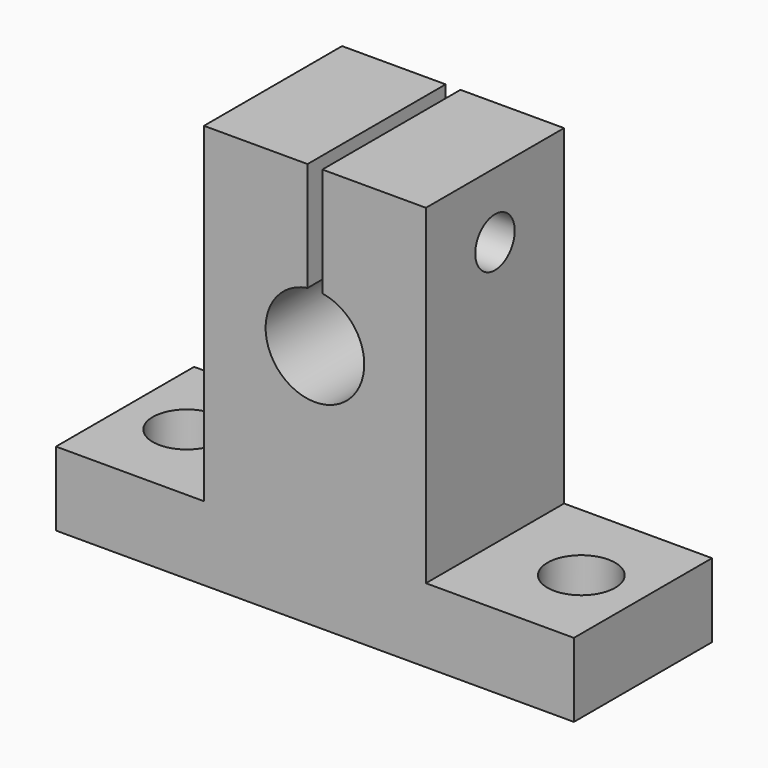
from build123d import *

# Parameters (mm, degrees)
OBJ1_R                     = 2.75
OBJ1_DEPTH                 = 8
OBJ2                     = 2.75
OBJ3                 = 8
OBJ4_PLACEMENT_ANGLE        = 90
TBOLT_SHAFT_R                    = 2
TBOLT_SHAFT_DEPTH                = 20
TBOLT_SHAFT_ROLL_ANGLE           = 90
UP_SEP_W                         = 16
UP_SEP_H                         = 1.2
UP_SEP_DEPTH                     = 13.8
SHAFT_HOLE_R                     = 4
SHAFT_HOLE_DEPTH                 = 16
SHAFT_HOLE_PITCH_ANGLE           = 90
TBOLT_HEAD_R                     = 3.85
TBOLT_HEAD_DEPTH                 = 5.4
TBOLT_HEAD_ROLL_ANGLE            = 90
SIDE_BOX_L_W                     = 14
SIDE_BOX_L_H                     = 12
SIDE_BOX_L_DEPTH                 = 26.8
SIDE_BOX_R_W                     = 14
SIDE_BOX_R_H                     = 12
SIDE_BOX_R_DEPTH                 = 26.8
TOTAL_BOX_W                      = 14
TOTAL_BOX_H                      = 42
TOTAL_BOX_DEPTH                  = 32.8
SK_SHAPE_W_HOLES_PLACEMENT_ANGLE = 90


with BuildPart() as obj1:
    # obj1 → obj1 (new body)
    with BuildSketch(Plane(origin=(7, -16, -1), x_dir=(1, 0, 0), z_dir=(0, 0, 1))):
        Circle(OBJ1_R)
    extrude(amount=OBJ1_DEPTH)


with BuildPart() as obj4:
    with BuildSketch(Plane(origin=(7, 16, -1), x_dir=(1, 0, 0), z_dir=(0, 0, 1))):
        Circle(OBJ2)
    extrude(amount=OBJ3)

    # obj4: union obj1
    add(obj1.part)


with BuildPart() as obj4_1:
    # obj4 placement: moved
    add(obj4.part.moved(Location((0, -7, 0))).rotate(Axis((0, -7, 0), (0, 0, 1)), OBJ4_PLACEMENT_ANGLE))


with BuildPart() as tbolt_shaft:
    # tbolt_shaft → tbolt_shaft (new body)
    with BuildSketch(Plane.XY):
        Circle(TBOLT_SHAFT_R)
    extrude(amount=TBOLT_SHAFT_DEPTH)


with BuildPart() as tbolt_shaft_1:
    # tbolt_shaft roll: moved
    add(tbolt_shaft.part.rotate(Axis((0, 0, 0), (1, 0, 0)), TBOLT_SHAFT_ROLL_ANGLE))


with BuildPart() as tbolt_shaft_2:
    # tbolt_shaft placement: moved
    add(tbolt_shaft_1.part.moved(Location((7, 10, 27.5))))


with BuildPart() as up_sep:
    # up_sep → up_sep (new body)
    with BuildSketch(Plane(origin=(-1, -0.6, 21), x_dir=(1, 0, 0), z_dir=(0, 0, 1))):
        with Locations((8, 0.6)):
            Rectangle(UP_SEP_W, UP_SEP_H)
    extrude(amount=UP_SEP_DEPTH)


with BuildPart() as shaft_hole:
    # shaft_hole → shaft_hole (new body)
    with BuildSketch(Plane.XY):
        Circle(SHAFT_HOLE_R)
    extrude(amount=SHAFT_HOLE_DEPTH)


with BuildPart() as shaft_hole_1:
    # shaft_hole pitch: moved
    add(shaft_hole.part.rotate(Axis((0, 0, 0), (0, 1, 0)), SHAFT_HOLE_PITCH_ANGLE))


with BuildPart() as shaft_hole_2:
    # shaft_hole placement: moved
    add(shaft_hole_1.part.moved(Location((-1, 0, 20))))


with BuildPart() as fuse_shaft_holes:
    # tbolt_head → tbolt_head (new body)
    with BuildSketch(Plane.XY):
        Circle(TBOLT_HEAD_R)
    extrude(amount=TBOLT_HEAD_DEPTH)


with BuildPart() as fuse_shaft_holes_1:
    # tbolt_head roll: moved
    add(fuse_shaft_holes.part.rotate(Axis((0, 0, 0), (1, 0, 0)), TBOLT_HEAD_ROLL_ANGLE))


with BuildPart() as fuse_shaft_holes_2:
    # tbolt_head placement: moved
    add(fuse_shaft_holes_1.part.moved(Location((7, 10, 27.5))))

    # fuse_shaft_holes: union tbolt_shaft, up_sep, shaft_hole
    add(tbolt_shaft_2.part)
    add(up_sep.part)
    add(shaft_hole_2.part)


with BuildPart() as side_box_l:
    # side_box_l → side_box_l (new body)
    with BuildSketch(Plane(origin=(0, -21, 6), x_dir=(1, 0, 0), z_dir=(0, 0, 1))):
        with Locations((7, 6)):
            Rectangle(SIDE_BOX_L_W, SIDE_BOX_L_H)
    extrude(amount=SIDE_BOX_L_DEPTH)


with BuildPart() as side_boxes:
    # side_box_r → side_box_r (new body)
    with BuildSketch(Plane(origin=(0, 9, 6), x_dir=(1, 0, 0), z_dir=(0, 0, 1))):
        with Locations((7, 6)):
            Rectangle(SIDE_BOX_R_W, SIDE_BOX_R_H)
    extrude(amount=SIDE_BOX_R_DEPTH)

    # side_boxes: union side_box_l
    add(side_box_l.part)


with BuildPart() as sky_x_y0:
    # total_box → total_box (new body)
    with BuildSketch(Plane(origin=(0, -21, 0), x_dir=(1, 0, 0), z_dir=(0, 0, 1))):
        with Locations((7, 21)):
            Rectangle(TOTAL_BOX_W, TOTAL_BOX_H)
    extrude(amount=TOTAL_BOX_DEPTH)

    # sk_shape: cut side_boxes
    add(side_boxes.part, mode=Mode.SUBTRACT)

    # sk_shape_w_holes: cut fuse_shaft_holes
    add(fuse_shaft_holes_2.part, mode=Mode.SUBTRACT)


with BuildPart() as sky_x_y0_1:
    # sk_shape_w_holes placement: moved
    add(sky_x_y0.part.moved(Location((0, -7, 0))).rotate(Axis((0, -7, 0), (0, 0, 1)), SK_SHAPE_W_HOLES_PLACEMENT_ANGLE))

    # sky_x_y0: cut obj4
    add(obj4_1.part, mode=Mode.SUBTRACT)


with BuildPart() as sky_x_y0_2:
    # sky_x_y0 placement: moved
    add(sky_x_y0_1.part.moved(Location((85.25, -56.5, -20))))


solid = sky_x_y0_2.part
